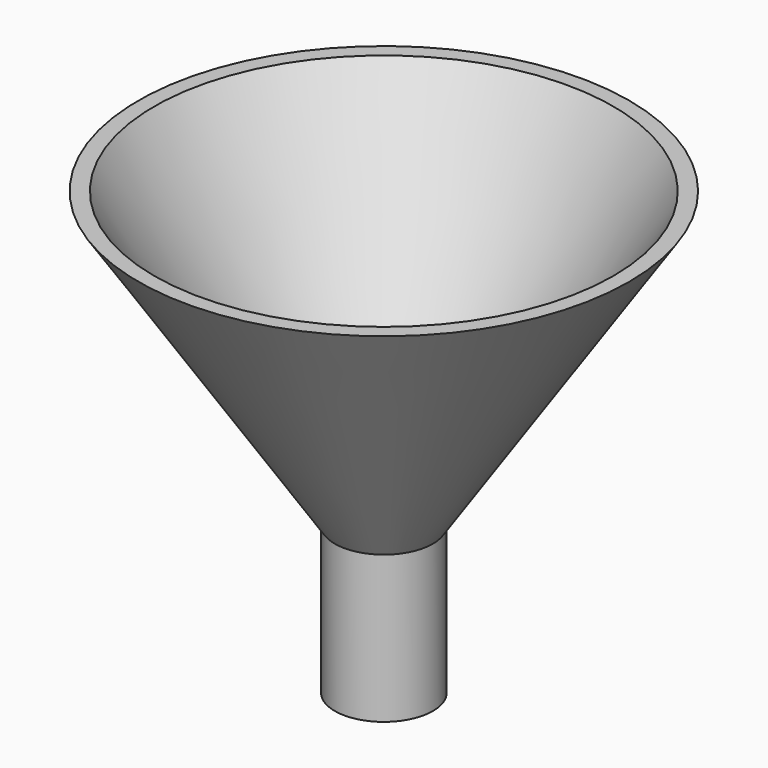
from build123d import *

# Parameters (mm, degrees)
CYLINDER001_R     = 4
CYLINDER001_DEPTH = 17
CYLINDER_R        = 5
CYLINDER_DEPTH    = 15


with BuildPart() as cilindre001:
    # Cylinder001 → Cylinder001 (new body)
    with BuildSketch(Plane.XY.offset(-1)):
        Circle(CYLINDER001_R)
    extrude(amount=CYLINDER001_DEPTH)


with BuildPart() as cut:
    # Cylinder → Cylinder (new body)
    with BuildSketch(Plane.XY):
        Circle(CYLINDER_R)
    extrude(amount=CYLINDER_DEPTH)

    # Cut: cut Cilindre001
    add(cilindre001.part, mode=Mode.SUBTRACT)


with BuildPart() as con001:
    # Cone001 → Cone001 (revolve)
    with BuildSketch(Plane(origin=(0, 0, 15), x_dir=(1, 0, 0), z_dir=(0, -1, 0))):
        Polygon((0, 0), (5, 0), (24, 31), (0, 31), align=None)
    revolve(axis=Axis((0, 0, 15), (0, 0, 1)))


with BuildPart() as cut001:
    # Cone → Cone (revolve)
    with BuildSketch(Plane(origin=(0, 0, 15), x_dir=(1, 0, 0), z_dir=(0, -1, 0))):
        Polygon((0, 0), (5, 0), (25, 30), (0, 30), align=None)
    revolve(axis=Axis((0, 0, 15), (0, 0, 1)))

    # Cut001: cut Con001
    add(con001.part, mode=Mode.SUBTRACT)


solid = Compound([cut.part, cut001.part])
